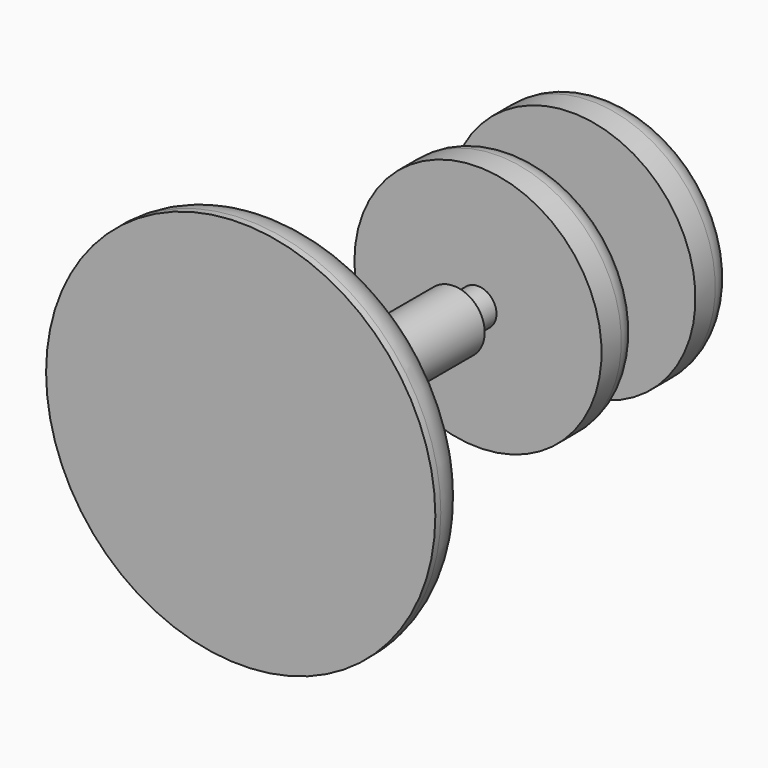
from build123d import *

# Parameters (mm, degrees)
F0_W   = 30
F0_H   = 110
F0_H_2 = 80
F0_H_3 = 48.918920987
F0_W_2 = 170
F2_R   = 40
F3_R   = 40
F4_R   = 70


with BuildPart() as f1:
    # F0 (on Top) → F1 (revolve)
    with BuildSketch(Plane.XY):
        Polygon((-30, 670), (0, 670), (0, 750), (-200, 750), (-200, 670), align=None)
        with Locations((-15, 615)):
            Rectangle(F0_W, F0_H)
        with Locations((-15, 520)):
            Rectangle(F0_W, F0_H_2)
        with Locations((-15, 455.5405395065)):
            Rectangle(F0_W, F0_H_3)
        with Locations((-115, 520)):
            Rectangle(F0_W_2, F0_H_2)
        Polygon((-50, 81.081079013), (0, 81.081079013), (0, 431.081079013), (-30, 431.081079013), (-50, 431.081079013), align=None)
        Polygon((-315, 81.081079013), (-315, 0), (0, 0), (0, 81.081079013), (-50, 81.081079013), align=None)
    revolve(axis=Axis((0, 590.3630256653, 0), (0, 1, 0)))

    # F2
    f2_edges = [f1.edges().sort_by_distance(p)[0] for p in [
        (200, 750, 0),
    ]]
    fillet(f2_edges, radius=F2_R)

    # F3
    f3_edges = [f1.edges().sort_by_distance(p)[0] for p in [
        (200, 560, 0),
    ]]
    fillet(f3_edges, radius=F3_R)

    # F4
    f4_edges = [f1.edges().sort_by_distance(p)[0] for p in [
        (315, 81.081079, 0),
    ]]
    fillet(f4_edges, radius=F4_R)


solid = f1.part
